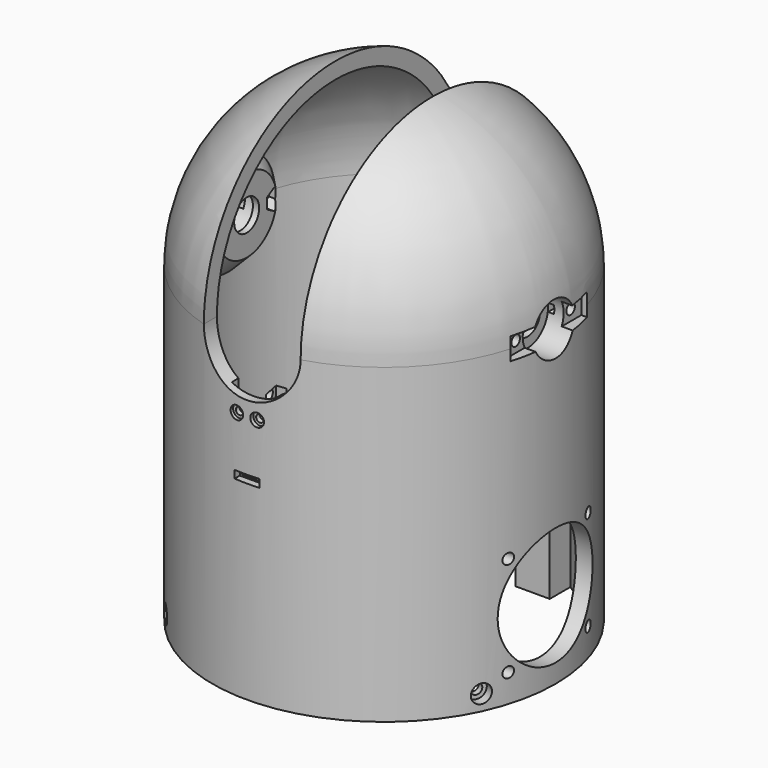
from build123d import *

# Parameters (mm, degrees)
CYLINDER_R               = 2.95
CYLINDER_DEPTH           = 7
CYLINDER001_R            = 1.7
CYLINDER001_DEPTH        = 30
PRISM_DEPTH              = 12
CYLINDER1003_R           = 8.2
CYLINDER1003_DEPTH       = 15
CLONE139_PLACEMENT_ANGLE = 30
BOX251_W                 = 30.6
BOX251_H                 = 7
BOX251_DEPTH             = 4
CYLINDER1015_R           = 5
CYLINDER1015_DEPTH       = 10
CLONE140_PLACEMENT_ANGLE = 30
CYLINDER1061_R           = 2.1
CYLINDER1061_DEPTH       = 7
CYLINDER1062_R           = 1.2
CYLINDER1062_DEPTH       = 30
CLONE444_PITCH_ANGLE     = -90
CLONE443_PITCH_ANGLE     = -90
CLONE445_PITCH_ANGLE     = -90
CYLINDER1064_R           = 19
CYLINDER1064_DEPTH       = 20
CLONE442_PITCH_ANGLE     = -90
CLONE_PITCH_ANGLE        = -90
CLONE446_PITCH_ANGLE     = -90
CLONE447_PITCH_ANGLE     = -90
CLONE448_PITCH_ANGLE     = -90
BOX270_W                 = 8
BOX270_H                 = 2.5
BOX270_DEPTH             = 2.5
BOX271_W                 = 6.5
BOX271_H                 = 3.5
BOX271_DEPTH             = 1.5
CLONE439_ROLL_ANGLE      = -90
BOX269_W                 = 14
BOX269_H                 = 10
BOX269_DEPTH             = 15
CLONE438_ROLL_ANGLE      = -90
CLONE281_PITCH_ANGLE     = 90
CLONE281_PLACEMENT_ANGLE = 45.000049
CLONE282_PITCH_ANGLE     = 90
CLONE282_PLACEMENT_ANGLE = -134.999951
CLONE283_PITCH_ANGLE     = 90
CLONE283_PLACEMENT_ANGLE = -24.999953
CLONE284_PITCH_ANGLE     = 90
CLONE284_PLACEMENT_ANGLE = 155.000022
PAD038_DEPTH             = 55
PAD037_DEPTH             = 55
PAD036_DEPTH             = 55
CLONE279_ROLL_ANGLE      = 90
CLONE279_PLACEMENT_ANGLE = 90
CLONE280_ROLL_ANGLE      = -90
CLONE280_PLACEMENT_ANGLE = 90
CLONE278_PLACEMENT_ANGLE = 180
PAD035_DEPTH             = 57.5
PAD002_DEPTH             = 2.7


with BuildPart() as m3bolthead:
    # Cylinder → Cylinder (new body)
    with BuildSketch(Plane.XY):
        Circle(CYLINDER_R)
    extrude(amount=CYLINDER_DEPTH)


with BuildPart() as m3bolt:
    # Cylinder001 → Cylinder001 (new body)
    with BuildSketch(Plane.XY.offset(6)):
        Circle(CYLINDER001_R)
    extrude(amount=CYLINDER001_DEPTH)

    # Fusion: union M3BoltHead
    add(m3bolthead.part)


with BuildPart() as m3nut:
    # Prism → Prism (new body)
    with BuildSketch(Plane.XY):
        Polygon((3.35, 0), (1.675, 2.901185), (-1.675, 2.901185), (-3.35, 0), (-1.675, -2.901185), (1.675, -2.901185), align=None)
    extrude(amount=PRISM_DEPTH)


with BuildPart() as obj1:
    # Sketch016 → Revolution003 (revolve)
    with BuildSketch(Plane.XY):
        Polygon((0, 0), (0, 18), (6, 12), (6, 0), align=None)
    revolve(axis=Axis((0, 0, 0), (1, 0, 0)))


with BuildPart() as obj2:
    # Cylinder1003 → Cylinder1003 (new body)
    with BuildSketch(Plane.XY):
        Circle(CYLINDER1003_R)
    extrude(amount=CYLINDER1003_DEPTH)


with BuildPart() as clone_of_m3nut005:
    # Clone139 base: copy of M3Nut
    add(m3nut.part)


with BuildPart() as clone_of_m3nut005_1:
    # Clone139 placement: moved
    add(clone_of_m3nut005.part.moved(Location((11, 0, 7))).rotate(Axis((11, 0, 7), (0, 0, 1)), CLONE139_PLACEMENT_ANGLE))


with BuildPart() as cube015:
    # Box251 → Box251 (new body)
    with BuildSketch(Plane(origin=(-15.3, -3.5, 0), x_dir=(1, 0, 0), z_dir=(0, 0, 1))):
        with Locations((15.3, 3.5)):
            Rectangle(BOX251_W, BOX251_H)
    extrude(amount=BOX251_DEPTH)


with BuildPart() as clone_of_m3bolt039:
    # Clone137 base: copy of M3Bolt
    add(m3bolt.part)


with BuildPart() as clone_of_m3bolt039_1:
    # Clone137 placement: moved
    add(clone_of_m3bolt039.part.moved(Location((11, 0, -4))))


with BuildPart() as clone_of_m3bolt040:
    # Clone138 base: copy of M3Bolt
    add(m3bolt.part)


with BuildPart() as clone_of_m3bolt040_1:
    # Clone138 placement: moved
    add(clone_of_m3bolt040.part.moved(Location((-11, 0, -4))))


with BuildPart() as cylinder021:
    # Cylinder1015 → Cylinder1015 (new body)
    with BuildSketch(Plane.XY.offset(4)):
        Circle(CYLINDER1015_R)
    extrude(amount=CYLINDER1015_DEPTH)


with BuildPart() as obj3:
    # Clone136 base: copy of obj2
    add(obj2.part)


with BuildPart() as obj3_1:
    # Clone136 placement: moved
    add(obj3.part.moved(Location((0, 0, -6))))


with BuildPart() as obj4:
    # Clone140 base: copy of M3Nut
    add(m3nut.part)


with BuildPart() as obj4_1:
    # Clone140 placement: moved
    add(obj4.part.moved(Location((-11, 0, 7))).rotate(Axis((-11, 0, 7), (0, 0, 1)), CLONE140_PLACEMENT_ANGLE))

    # Fusion062: union Clone of M3Nut005, Cube015, Clone of M3Bolt039, Clone of M3Bolt040, Cylinder021, obj3
    add(clone_of_m3nut005_1.part)
    add(cube015.part)
    add(clone_of_m3bolt039_1.part)
    add(clone_of_m3bolt040_1.part)
    add(cylinder021.part)
    add(obj3_1.part)


with BuildPart() as m2bolthead:
    # Cylinder1061 → Cylinder1061 (new body)
    with BuildSketch(Plane.XY):
        Circle(CYLINDER1061_R)
    extrude(amount=CYLINDER1061_DEPTH)


with BuildPart() as m2bolt:
    # Cylinder1062 → Cylinder1062 (new body)
    with BuildSketch(Plane.XY.offset(6)):
        Circle(CYLINDER1062_R)
    extrude(amount=CYLINDER1062_DEPTH)

    # Fusion158: union M2BoltHead
    add(m2bolthead.part)


with BuildPart() as clone_of_m3bolt100:
    # Clone444 base: copy of M3Bolt
    add(m3bolt.part)


with BuildPart() as clone_of_m3bolt100_1:
    # Clone444 pitch: moved
    add(clone_of_m3bolt100.part.rotate(Axis((0, 0, 0), (0, 1, 0)), CLONE444_PITCH_ANGLE))


with BuildPart() as clone_of_m3bolt100_2:
    # Clone444 placement: moved
    add(clone_of_m3bolt100_1.part.moved(Location((78.76, -15.994718, 40.994755))))


with BuildPart() as clone_of_m3bolt099:
    # Clone443 base: copy of M3Bolt
    add(m3bolt.part)


with BuildPart() as clone_of_m3bolt099_1:
    # Clone443 pitch: moved
    add(clone_of_m3bolt099.part.rotate(Axis((0, 0, 0), (0, 1, 0)), CLONE443_PITCH_ANGLE))


with BuildPart() as clone_of_m3bolt099_2:
    # Clone443 placement: moved
    add(clone_of_m3bolt099_1.part.moved(Location((78.76, -15.994718, 9.005245))))


with BuildPart() as clone_of_m3bolt101:
    # Clone445 base: copy of M3Bolt
    add(m3bolt.part)


with BuildPart() as clone_of_m3bolt101_1:
    # Clone445 pitch: moved
    add(clone_of_m3bolt101.part.rotate(Axis((0, 0, 0), (0, 1, 0)), CLONE445_PITCH_ANGLE))


with BuildPart() as clone_of_m3bolt101_2:
    # Clone445 placement: moved
    add(clone_of_m3bolt101_1.part.moved(Location((78.76, 15.994793, 9.005245))))


with BuildPart() as cylinder022:
    # Cylinder1064 → Cylinder1064 (new body)
    with BuildSketch(Plane(origin=(42, 0, 25), x_dir=(0, 1, 0), z_dir=(1, 0, 0))):
        Circle(CYLINDER1064_R)
    extrude(amount=CYLINDER1064_DEPTH)


with BuildPart() as clone_of_m3bolt:
    # Clone442 base: copy of M3Bolt
    add(m3bolt.part)


with BuildPart() as clone_of_m3bolt_1:
    # Clone442 pitch: moved
    add(clone_of_m3bolt.part.rotate(Axis((0, 0, 0), (0, 1, 0)), CLONE442_PITCH_ANGLE))


with BuildPart() as clone_of_m3bolt_2:
    # Clone442 placement: moved
    add(clone_of_m3bolt_1.part.moved(Location((78.76, 15.994793, 40.994755))))


with BuildPart() as clone_of_m3nut:
    # Clone base: copy of M3Nut
    add(m3nut.part)


with BuildPart() as clone_of_m3nut_1:
    # Clone pitch: moved
    add(clone_of_m3nut.part.rotate(Axis((0, 0, 0), (0, 1, 0)), CLONE_PITCH_ANGLE))


with BuildPart() as clone_of_m3nut_2:
    # Clone placement: moved
    add(clone_of_m3nut_1.part.moved(Location((49.76, 15.994793, 9.005245))))


with BuildPart() as clone_of_m3nut007:
    # Clone446 base: copy of M3Nut
    add(m3nut.part)


with BuildPart() as clone_of_m3nut007_1:
    # Clone446 pitch: moved
    add(clone_of_m3nut007.part.rotate(Axis((0, 0, 0), (0, 1, 0)), CLONE446_PITCH_ANGLE))


with BuildPart() as clone_of_m3nut007_2:
    # Clone446 placement: moved
    add(clone_of_m3nut007_1.part.moved(Location((49.76, -15.994718, 9.005245))))


with BuildPart() as clone_of_m3nut008:
    # Clone447 base: copy of M3Nut
    add(m3nut.part)


with BuildPart() as clone_of_m3nut008_1:
    # Clone447 pitch: moved
    add(clone_of_m3nut008.part.rotate(Axis((0, 0, 0), (0, 1, 0)), CLONE447_PITCH_ANGLE))


with BuildPart() as clone_of_m3nut008_2:
    # Clone447 placement: moved
    add(clone_of_m3nut008_1.part.moved(Location((49.76, 15.994793, 40.994755))))


with BuildPart() as fanholes:
    # Clone448 base: copy of M3Nut
    add(m3nut.part)


with BuildPart() as fanholes_1:
    # Clone448 pitch: moved
    add(fanholes.part.rotate(Axis((0, 0, 0), (0, 1, 0)), CLONE448_PITCH_ANGLE))


with BuildPart() as fanholes_2:
    # Clone448 placement: moved
    add(fanholes_1.part.moved(Location((49.76, -15.994718, 40.994755))))

    # Fusion169: union Clone of M3Bolt100, Clone of M3Bolt099, Clone of M3Bolt101, Cylinder022, Clone of M3Bolt, Clone of M3Nut, Clone of M3Nut007, Clone of M3Nut008
    add(clone_of_m3bolt100_2.part)
    add(clone_of_m3bolt099_2.part)
    add(clone_of_m3bolt101_2.part)
    add(cylinder022.part)
    add(clone_of_m3bolt_2.part)
    add(clone_of_m3nut_2.part)
    add(clone_of_m3nut007_2.part)
    add(clone_of_m3nut008_2.part)


with BuildPart() as part_mirroring:
    # Part__Mirroring: instance of FanHoles
    add(fanholes_2.part.mirror(Plane(origin=(0, 0, 0), x_dir=(0, -1, 0), z_dir=(1, 0, 0))))


with BuildPart() as fusion170:
    # Fusion170 base: copy of FanHoles
    add(fanholes_2.part)

    # Fusion170: union Part__Mirroring
    add(part_mirroring.part)


with BuildPart() as cube032:
    # Box270 → Box270 (new body)
    with BuildSketch(Plane.XY):
        with Locations((4, 1.25)):
            Rectangle(BOX270_W, BOX270_H)
    extrude(amount=BOX270_DEPTH)


with BuildPart() as fusion168:
    # Box271 → Box271 (new body)
    with BuildSketch(Plane(origin=(0.75, 2, 0.5), x_dir=(1, 0, 0), z_dir=(0, 0, 1))):
        with Locations((3.25, 1.75)):
            Rectangle(BOX271_W, BOX271_H)
    extrude(amount=BOX271_DEPTH)

    # Fusion168: union Cube032
    add(cube032.part)


with BuildPart() as fusion168_1:
    # Fusion168 placement: moved
    add(fusion168.part.moved(Location((-4, -55.25, 61))))


with BuildPart() as clone439:
    # Clone439 base: copy of M2Bolt
    add(m2bolt.part)


with BuildPart() as clone439_1:
    # Clone439 roll: moved
    add(clone439.part.rotate(Axis((0, 0, 0), (1, 0, 0)), CLONE439_ROLL_ANGLE))


with BuildPart() as clone439_2:
    # Clone439 placement: moved
    add(clone439_1.part.moved(Location((3.25, -60.75, 79.9))))


with BuildPart() as cube031:
    # Box269 → Box269 (new body)
    with BuildSketch(Plane(origin=(-7, -52.25, 72), x_dir=(1, 0, 0), z_dir=(0, 0, 1))):
        with Locations((7, 5)):
            Rectangle(BOX269_W, BOX269_H)
    extrude(amount=BOX269_DEPTH)


with BuildPart() as fusion164:
    # Clone438 base: copy of M2Bolt
    add(m2bolt.part)


with BuildPart() as fusion164_1:
    # Clone438 roll: moved
    add(fusion164.part.rotate(Axis((0, 0, 0), (1, 0, 0)), CLONE438_ROLL_ANGLE))


with BuildPart() as fusion164_2:
    # Clone438 placement: moved
    add(fusion164_1.part.moved(Location((-3.25, -60.75, 79.9))))

    # Fusion164: union Clone439, Cube031
    add(clone439_2.part)
    add(cube031.part)


with BuildPart() as clone_of_m3bolt095:
    # Clone281 base: copy of M3Bolt
    add(m3bolt.part)


with BuildPart() as clone_of_m3bolt095_1:
    # Clone281 pitch: moved
    add(clone_of_m3bolt095.part.rotate(Axis((0, 0, 0), (0, 1, 0)), CLONE281_PITCH_ANGLE))


with BuildPart() as clone_of_m3bolt095_2:
    # Clone281 placement: moved
    add(clone_of_m3bolt095_1.part.moved(Location((-41.719293, -41.719293, 5))).rotate(Axis((-41.719293, -41.719293, 5), (0, 0, 1)), CLONE281_PLACEMENT_ANGLE))


with BuildPart() as clone_of_m3bolt096:
    # Clone282 base: copy of M3Bolt
    add(m3bolt.part)


with BuildPart() as clone_of_m3bolt096_1:
    # Clone282 pitch: moved
    add(clone_of_m3bolt096.part.rotate(Axis((0, 0, 0), (0, 1, 0)), CLONE282_PITCH_ANGLE))


with BuildPart() as clone_of_m3bolt096_2:
    # Clone282 placement: moved
    add(clone_of_m3bolt096_1.part.moved(Location((41.719293, 41.719293, 5))).rotate(Axis((41.719293, 41.719293, 5), (0, 0, 1)), CLONE282_PLACEMENT_ANGLE))


with BuildPart() as clone_of_m3bolt097:
    # Clone283 base: copy of M3Bolt
    add(m3bolt.part)


with BuildPart() as clone_of_m3bolt097_1:
    # Clone283 pitch: moved
    add(clone_of_m3bolt097.part.rotate(Axis((0, 0, 0), (0, 1, 0)), CLONE283_PITCH_ANGLE))


with BuildPart() as clone_of_m3bolt097_2:
    # Clone283 placement: moved
    add(clone_of_m3bolt097_1.part.moved(Location((-53.472192, 24.934482, 5))).rotate(Axis((-53.472192, 24.934482, 5), (0, 0, 1)), CLONE283_PLACEMENT_ANGLE))


with BuildPart() as fusion099:
    # Clone284 base: copy of M3Bolt
    add(m3bolt.part)


with BuildPart() as fusion099_1:
    # Clone284 pitch: moved
    add(fusion099.part.rotate(Axis((0, 0, 0), (0, 1, 0)), CLONE284_PITCH_ANGLE))


with BuildPart() as fusion099_2:
    # Clone284 placement: moved
    add(fusion099_1.part.moved(Location((53.472192, -24.934482, 5))).rotate(Axis((53.472192, -24.934482, 5), (0, 0, 1)), CLONE284_PLACEMENT_ANGLE))

    # Fusion099: union Clone of M3Bolt095, Clone of M3Bolt096, Clone of M3Bolt097
    add(clone_of_m3bolt095_2.part)
    add(clone_of_m3bolt096_2.part)
    add(clone_of_m3bolt097_2.part)


with BuildPart() as pad038:
    # Sketch055 → Pad038 (new body)
    with BuildSketch(Plane.XY):
        Polygon((-24.1, 45.35), (-19.1, 45.35), (-19.1, 40.35), (-24.1, 40.35), (-24.1, 35.35), (-27.9, 35.35), (-27.9, 43), align=None)
        Polygon((27.9, -35.35), (24.1, -35.35), (24.1, -40.35), (19.1, -40.35), (19.1, -45.35), (24.1, -45.35), (27.9, -43), align=None)
    extrude(amount=PAD038_DEPTH)


with BuildPart() as pad037:
    # Sketch054 → Pad037 (new body)
    with BuildSketch(Plane.XY):
        Polygon((-32, 39.5), (-32, 29.5), (-26.041232, 34.5), align=None)
        Polygon((12.041232, 42.5), (18, 47.5), (18, 37.5), align=None)
        Polygon((-18, -37.5), (-18, -47.5), (-12.041232, -42.5), align=None)
        Polygon((32, -29.5), (32, -39.5), (26.041232, -34.5), align=None)
    extrude(amount=PAD037_DEPTH)


with BuildPart() as pad036:
    # Sketch053 → Pad036 (new body)
    with BuildSketch(Plane.XY):
        with BuildLine():
            ThreePointArc((-27.9, 42.09323), (-33.764088, 37.553114), (-38.9, 32.203105))
            Line((-38.9, 27), (-38.9, 32.203105))
            Line((-27.9, 27), (-38.9, 27))
            Line((-27.9, 42.09323), (-27.9, 27))
        make_face()
        with BuildLine():
            Line((25.1, 43.820543), (25.1, 35))
            Line((25.1, 35), (14.1, 35))
            Line((14.1, 35), (14.1, 48.491649))
            ThreePointArc((25.1, 43.820543), (19.738663, 46.482633), (14.1, 48.491649))
        make_face()
        with BuildLine():
            Line((27.9, -27), (38.9, -27))
            Line((38.9, -27), (38.9, -32.203105))
            ThreePointArc((27.9, -42.09323), (33.764088, -37.553114), (38.9, -32.203105))
            Line((27.9, -42.09323), (27.9, -27))
        make_face()
        with BuildLine():
            Line((-25.1, -35), (-14.1, -35))
            Line((-14.1, -35), (-14.1, -48.491649))
            ThreePointArc((-25.1, -43.820543), (-19.738663, -46.482633), (-14.1, -48.491649))
            Line((-25.1, -43.820543), (-25.1, -35))
        make_face()
    extrude(amount=PAD036_DEPTH)


with BuildPart() as obj5:
    # Clone279 base: copy of obj4
    add(obj4_1.part)


with BuildPart() as obj5_1:
    # Clone279 roll: moved
    add(obj5.part.rotate(Axis((0, 0, 0), (1, 0, 0)), CLONE279_ROLL_ANGLE))


with BuildPart() as obj5_2:
    # Clone279 placement: moved
    add(obj5_1.part.moved(Location((-55, 0, 100))).rotate(Axis((-55, 0, 100), (0, 0, 1)), CLONE279_PLACEMENT_ANGLE))


with BuildPart() as fusion096:
    # Clone280 base: copy of obj4
    add(obj4_1.part)


with BuildPart() as fusion096_1:
    # Clone280 roll: moved
    add(fusion096.part.rotate(Axis((0, 0, 0), (1, 0, 0)), CLONE280_ROLL_ANGLE))


with BuildPart() as fusion096_2:
    # Clone280 placement: moved
    add(fusion096_1.part.moved(Location((55, 0, 100))).rotate(Axis((55, 0, 100), (0, 0, 1)), CLONE280_PLACEMENT_ANGLE))

    # Fusion096: union obj5
    add(obj5_2.part)


with BuildPart() as obj6:
    # Clone278 base: copy of obj1
    add(obj1.part)


with BuildPart() as obj6_1:
    # Clone278 placement: moved
    add(obj6.part.moved(Location((50.0001, 0, 100))).rotate(Axis((50.0001, 0, 100), (0, 0, 1)), CLONE278_PLACEMENT_ANGLE))


with BuildPart() as pad035:
    # Sketch052 → Pad035 (new body, symmetric)
    with BuildSketch(Plane(origin=(0, 0, 84.5), x_dir=(1, 0, 0), z_dir=(0, -1, 0))):
        with BuildLine():
            ThreePointArc((-15.5, 15.5), (-2.1e-05, 0), (15.5, 15.499957))
            Line((15.5, 15.499957), (15.5, 75.499957))
            Line((15.5, 75.499957), (-15.5, 75.499957))
            Line((-15.5, 75.499957), (-15.5, 15.5))
        make_face()
    extrude(amount=PAD035_DEPTH, both=True)


with BuildPart() as cut155:
    # Sketch051 → Revolution012 (revolve)
    with BuildSketch(Plane.XZ):
        with BuildLine():
            Line((50, 100), (50, 0))
            Line((50, 0), (55, 0))
            Line((55, 0), (55, 100))
            ThreePointArc((55, 100), (38.890873, 138.890873), (0, 155))
            Line((0, 150), (0, 155))
            ThreePointArc((50, 100), (35.355339, 135.355339), (0, 150))
        make_face()
    revolve(axis=Axis((0, 0, 0), (0, 0, 1)))

    # Cut081: cut Pad035
    add(pad035.part, mode=Mode.SUBTRACT)


with BuildPart() as obj7:
    # Clone277 base: copy of obj1
    add(obj1.part)


with BuildPart() as obj7_1:
    # Clone277 placement: moved
    add(obj7.part.moved(Location((-50.0001, 0, 100))))

    # Fusion097: union obj6, Cut155
    add(obj6_1.part)
    add(cut155.part)

    # Cut082: cut Fusion096
    add(fusion096_2.part, mode=Mode.SUBTRACT)

    # Fusion098: union Pad036
    add(pad036.part)

    # Cut083: cut Pad037
    add(pad037.part, mode=Mode.SUBTRACT)

    # Cut084: cut Pad038
    add(pad038.part, mode=Mode.SUBTRACT)

    # Cut085: cut Fusion099
    add(fusion099_2.part, mode=Mode.SUBTRACT)

    # Cut143: cut Fusion164
    add(fusion164_2.part, mode=Mode.SUBTRACT)

    # Cut148: cut Fusion168
    add(fusion168_1.part, mode=Mode.SUBTRACT)

    # Cut: cut Fusion170
    add(fusion170.part, mode=Mode.SUBTRACT)


with BuildPart() as m3nuthousing:
    # Sketch003 → Pad002 (new body)
    with BuildSketch(Plane.XY):
        Polygon((0, 0), (1.674316, 2.9), (21.674316, 2.9), (21.674316, -2.9), (1.674316, -2.9), align=None)
    extrude(amount=PAD002_DEPTH)


solid = Compound([m3bolt.part, m3nut.part, obj1.part, obj2.part, obj4_1.part, m2bolt.part, obj7_1.part, m3nuthousing.part])
